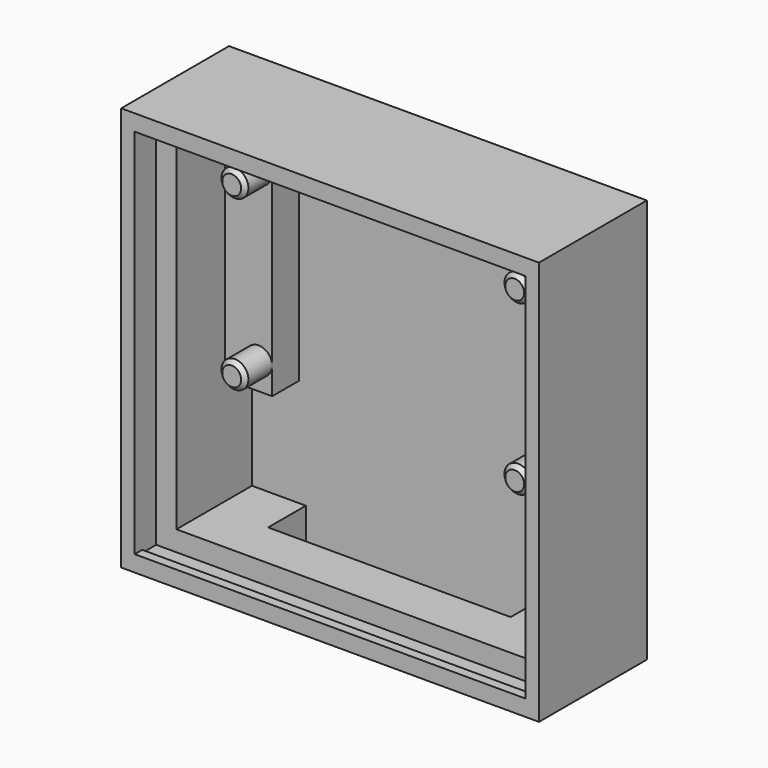
from build123d import *

# Parameters (mm, degrees)
F0_W      = 15.5
F0_H      = 15
F1_DEPTH  = 10
F2_W      = 29
F2_H      = 28
F3_DEPTH  = 2
F4_W      = 26
F4_H      = 25
F5_DEPTH  = 7
F6_W      = 3.5
F6_H      = 17
F7_DEPTH  = 2.5
F8_R      = 1
F9_DEPTH  = 2.5
F10_W     = 18
F10_H     = 3.5
F11_DEPTH = 25
F12_SIZE  = 0.3
F13_W     = 29
F13_H     = 0.7
F14_DEPTH = 0.2
F15_W     = 29
F15_H     = 0.7
F16_DEPTH = 0.2


with BuildPart() as f1:
    # F0 (on Front) → F1 (new body)
    with BuildSketch(Plane.XZ):
        with Locations((-7.75, 10)):
            Rectangle(F0_W, F0_H)
        with Locations((7.75, 10)):
            Rectangle(F0_W, F0_H)
        with Locations((-7.75, -5)):
            Rectangle(F0_W, F0_H)
        with Locations((7.75, -5)):
            Rectangle(F0_W, F0_H)
    extrude(amount=F1_DEPTH)

    # F2 (on face) → F3 (cut)
    with BuildSketch(Plane.XZ.offset(10)):
        with Locations((0, 2.5)):
            Rectangle(F2_W, F2_H)
    extrude(amount=-F3_DEPTH, mode=Mode.SUBTRACT)

    # F4 (on face) → F5 (cut)
    with BuildSketch(Plane.XZ.offset(8)):
        with Locations((0, 2.5)):
            Rectangle(F4_W, F4_H)
    extrude(amount=-F5_DEPTH, mode=Mode.SUBTRACT)

    # F6 (on face) → F7 (join)
    with BuildSketch(Plane.XZ.offset(1)):
        with Locations((-11.25, 6.5)):
            Rectangle(F6_W, F6_H)
        with Locations((11.25, 6.5)):
            Rectangle(F6_W, F6_H)
    extrude(amount=F7_DEPTH)

    # F8 (on face) → F9 (join)
    with BuildSketch(Plane.XZ.offset(3.5)):
        with Locations((-10.5, 12.5)):
            Circle(F8_R)
        with Locations((-10.5, 0)):
            Circle(F8_R)
        with Locations((10.5, 12.5)):
            Circle(F8_R)
        with Locations((10.5, 0)):
            Circle(F8_R)
    extrude(amount=F9_DEPTH)

    # F10 (on face) → F11 (cut)
    with BuildSketch(Plane.XY.offset(-10)):
        with Locations((0, -2.75)):
            Rectangle(F10_W, F10_H)
    extrude(amount=-F11_DEPTH, mode=Mode.SUBTRACT)

    # F12
    f12_edges = [f1.edges().sort_by_distance(p)[0] for p in [
        (-11.5, -6, 12.5),
        (-11.5, -6, 0),
        (9.5, -6, 12.5),
        (9.5, -6, 0),
    ]]
    chamfer(f12_edges, length=F12_SIZE)

    # F13 (on face) → F14 (join)
    with BuildSketch(Plane(origin=(0, 0, 16.5), x_dir=(1, 0, 0), z_dir=(0, 0, -1))):
        with Locations((0, 9.65)):
            Rectangle(F13_W, F13_H)
    extrude(amount=F14_DEPTH)

    # F15 (on face) → F16 (join)
    with BuildSketch(Plane.XY.offset(-11.5)):
        with Locations((0, -9.65)):
            Rectangle(F15_W, F15_H)
    extrude(amount=F16_DEPTH)


solid = f1.part
